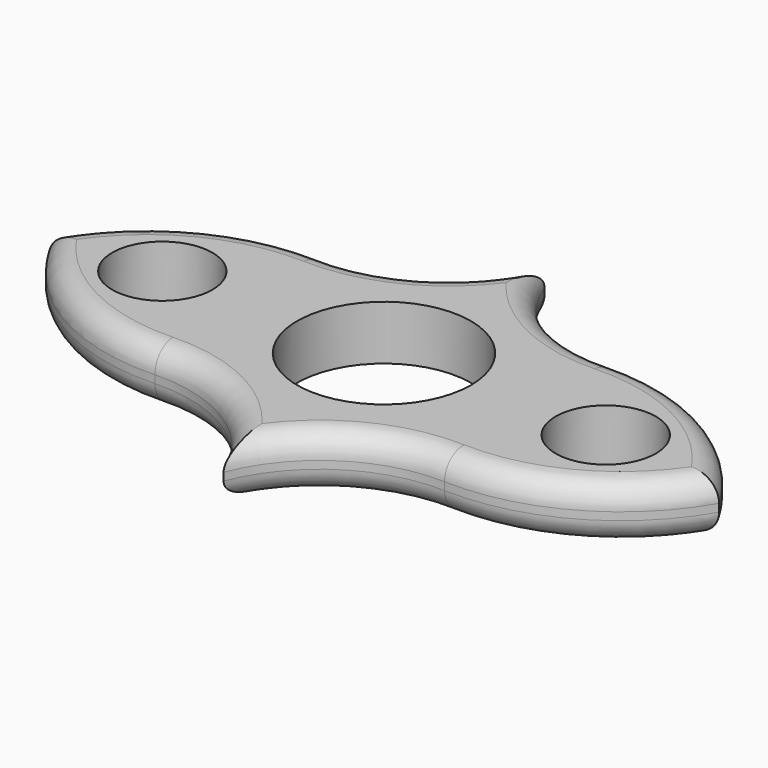
from build123d import *

# Parameters (mm, degrees)
F0_R     = 6.45
F0_R_2   = 11.175
F1_DEPTH = 7
F2_R     = 3


with BuildPart() as f1:
    # F0 (on Top) → F1 (new body)
    with BuildSketch(Plane.XY):
        with BuildLine():
            ThreePointArc((9.599923, 11.660709), (13.65884, 6.447227), (15.103995, 0))
            ThreePointArc((15.103995, 0), (13.65884, -6.447227), (9.599923, -11.660709))
            ThreePointArc((9.599923, -11.660709), (14.033897, -12.989573), (18.629101, -13.546434))
            ThreePointArc((18.629101, -13.546434), (32.744063, -10.165399), (43.103995, 0))
            ThreePointArc((43.103995, 0), (32.744063, 10.165399), (18.629101, 13.546434))
            ThreePointArc((18.629101, 13.546434), (14.033897, 12.989573), (9.599923, 11.660709))
        make_face()
        with Locations((28.517951, 0)):
            Circle(F0_R, mode=Mode.SUBTRACT)
        with BuildLine():
            ThreePointArc((-9.599923, 11.660709), (0, 15.103995), (9.599923, 11.660709))
            ThreePointArc((9.599923, 11.660709), (14.033897, 12.989573), (18.629101, 13.546434))
            ThreePointArc((18.629101, 13.546434), (7.362471, 16.703494), (0, 25.797338))
            ThreePointArc((0, 25.797338), (-7.362471, 16.703494), (-18.629101, 13.546434))
            ThreePointArc((-18.629101, 13.546434), (-14.033897, 12.989573), (-9.599923, 11.660709))
        make_face()
        with BuildLine():
            ThreePointArc((18.629101, -13.546434), (14.033897, -12.989573), (9.599923, -11.660709))
            ThreePointArc((9.599923, -11.660709), (0, -15.103995), (-9.599923, -11.660709))
            ThreePointArc((-9.599923, -11.660709), (-14.033897, -12.989573), (-18.629101, -13.546434))
            ThreePointArc((-18.629101, -13.546434), (-7.362471, -16.703494), (0, -25.797338))
            ThreePointArc((0, -25.797338), (7.362471, -16.703494), (18.629101, -13.546434))
        make_face()
        with BuildLine():
            ThreePointArc((-9.599923, -11.660709), (-15.103995, 0), (-9.599923, 11.660709))
            ThreePointArc((-9.599923, 11.660709), (-14.033897, 12.989573), (-18.629101, 13.546434))
            ThreePointArc((-18.629101, 13.546434), (-32.744063, 10.165399), (-43.103995, 0))
            ThreePointArc((-43.103995, 0), (-32.744063, -10.165399), (-18.629101, -13.546434))
            ThreePointArc((-18.629101, -13.546434), (-14.033897, -12.989573), (-9.599923, -11.660709))
        make_face()
        with Locations((-28.517951, 0)):
            Circle(F0_R, mode=Mode.SUBTRACT)
        with BuildLine():
            ThreePointArc((9.599923, -11.660709), (13.65884, -6.447227), (15.103995, 0))
            ThreePointArc((15.103995, 0), (13.65884, 6.447227), (9.599923, 11.660709))
            ThreePointArc((9.599923, 11.660709), (0, 15.103995), (-9.599923, 11.660709))
            ThreePointArc((-9.599923, 11.660709), (-15.103995, 0), (-9.599923, -11.660709))
            ThreePointArc((-9.599923, -11.660709), (0, -15.103995), (9.599923, -11.660709))
        make_face()
        Circle(F0_R_2, mode=Mode.SUBTRACT)
    extrude(amount=F1_DEPTH)

    # F2
    f2_edges = [f1.edges().sort_by_distance(p)[0] for p in [
        (7.362471, -16.703494, 7),
        (32.744063, -10.165399, 7),
        (32.744063, 10.165399, 7),
        (7.362471, 16.703494, 7),
        (-7.362471, 16.703494, 7),
        (-32.744063, -10.165399, 7),
        (-7.362471, -16.703494, 7),
        (-32.744063, 10.165399, 7),
        (7.362471, -16.703494, 0),
        (32.744063, -10.165399, 0),
        (-7.362471, -16.703494, 0),
        (-32.744063, -10.165399, 0),
        (-32.744063, 10.165399, 0),
        (-7.362471, 16.703494, 0),
        (7.362471, 16.703494, 0),
        (32.744063, 10.165399, 0),
    ]]
    fillet(f2_edges, radius=F2_R)


solid = f1.part
